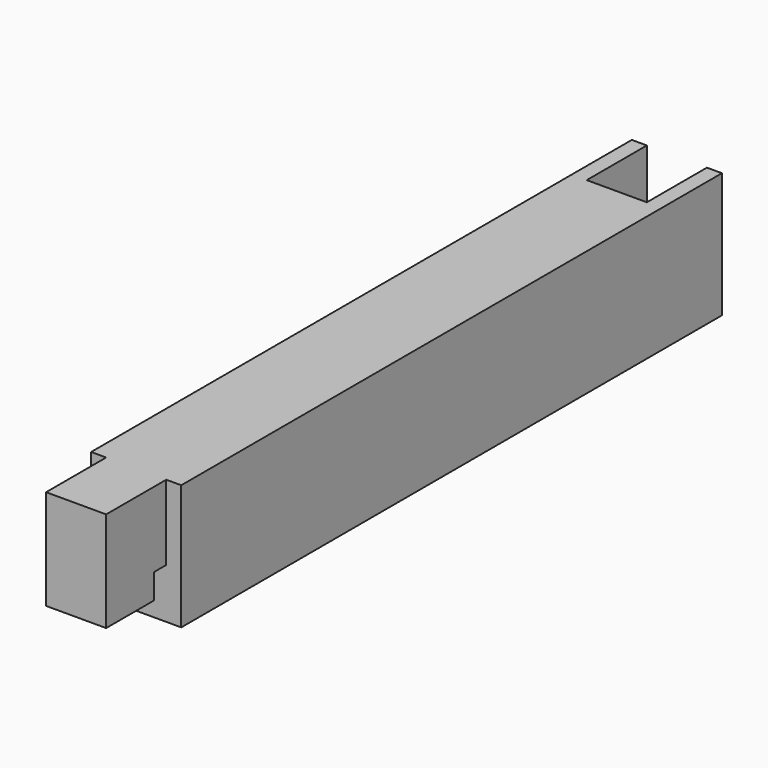
from build123d import *

# Parameters (mm, degrees)
F0_W     = 18
F0_H     = 25
F1_DEPTH = 150
F3_DEPTH = 25
F4_W     = 3
F4_H     = 15
F5_DEPTH = 25
F6_W     = 12
F6_H     = 12
F7_DEPTH = 20
F8_W     = 12
F8_H     = 15
F9_DEPTH = 5


with BuildPart() as f1:
    # F0 (on Front) → F1 (new body)
    with BuildSketch(Plane.XZ):
        Rectangle(F0_W, F0_H)
    extrude(amount=F1_DEPTH)

    # F2 (on face) → F3 (cut)
    with BuildSketch(Plane.YZ.offset(9)):
        Polygon((-150, -12.5), (-135, -12.5), (-135, -2.5), (-138, -2.5), (-138, -7.5), (-150, -7.5), align=None)
    extrude(amount=-F3_DEPTH, mode=Mode.SUBTRACT)

    # F4 (on face) → F5 (cut)
    with BuildSketch(Plane.XY.offset(12.5)):
        with Locations((7.5, -142.5)):
            Rectangle(F4_W, F4_H)
        with Locations((-7.5, -142.5)):
            Rectangle(F4_W, F4_H)
    extrude(amount=-F5_DEPTH, mode=Mode.SUBTRACT)

    # F6 (on face) → F7 (cut)
    with BuildSketch(Plane.XY.offset(12.5)):
        with Locations((0, -9)):
            Rectangle(F6_W, F6_H)
    extrude(amount=-F7_DEPTH, mode=Mode.SUBTRACT)

    # F8 (on face) → F9 (cut)
    with BuildSketch(Plane.XZ):
        with Locations((0, 5.012322)):
            Rectangle(F8_W, F8_H)
    extrude(amount=F9_DEPTH, mode=Mode.SUBTRACT)


solid = f1.part
